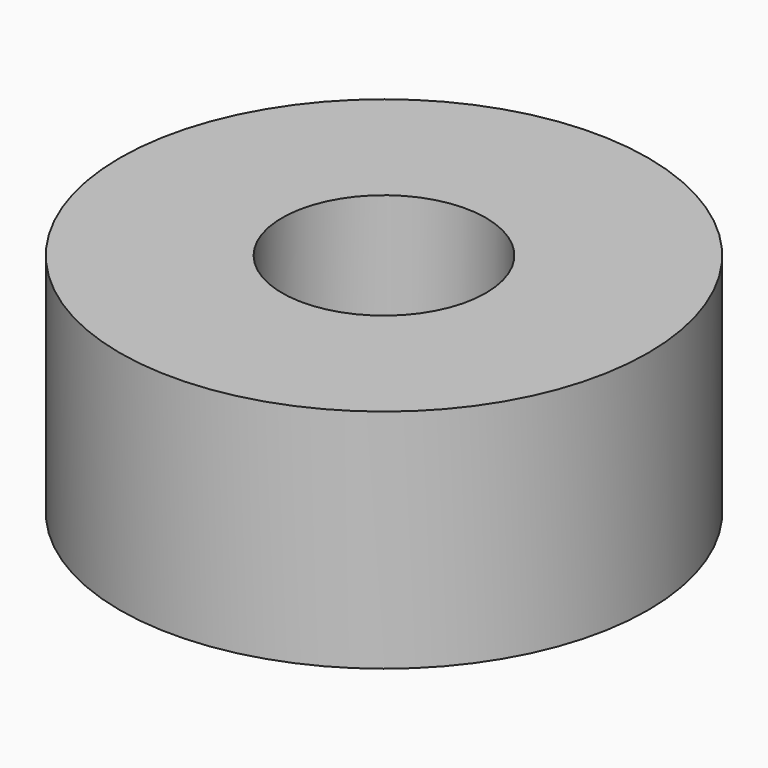
from build123d import *

# Parameters (mm, degrees)
CYLINDER001_R     = 1.35
CYLINDER001_DEPTH = 3
CYLINDER_R        = 3.5
CYLINDER_DEPTH    = 3
CHAMFER_SIZE      = 0.4


with BuildPart() as cylinder001:
    # Cylinder001 → Cylinder001 (new body)
    with BuildSketch(Plane.XY):
        Circle(CYLINDER001_R)
    extrude(amount=CYLINDER001_DEPTH)


with BuildPart() as chamfer_body:
    # Cylinder → Cylinder (new body)
    with BuildSketch(Plane.XY):
        Circle(CYLINDER_R)
    extrude(amount=CYLINDER_DEPTH)

    # Cut: cut Cylinder001
    add(cylinder001.part, mode=Mode.SUBTRACT)

    # Chamfer
    chamfer_edges = [chamfer_body.edges().sort_by_distance(p)[0] for p in [
        (-1.35, 0, 0),
    ]]
    chamfer(chamfer_edges, length=CHAMFER_SIZE)


solid = chamfer_body.part
